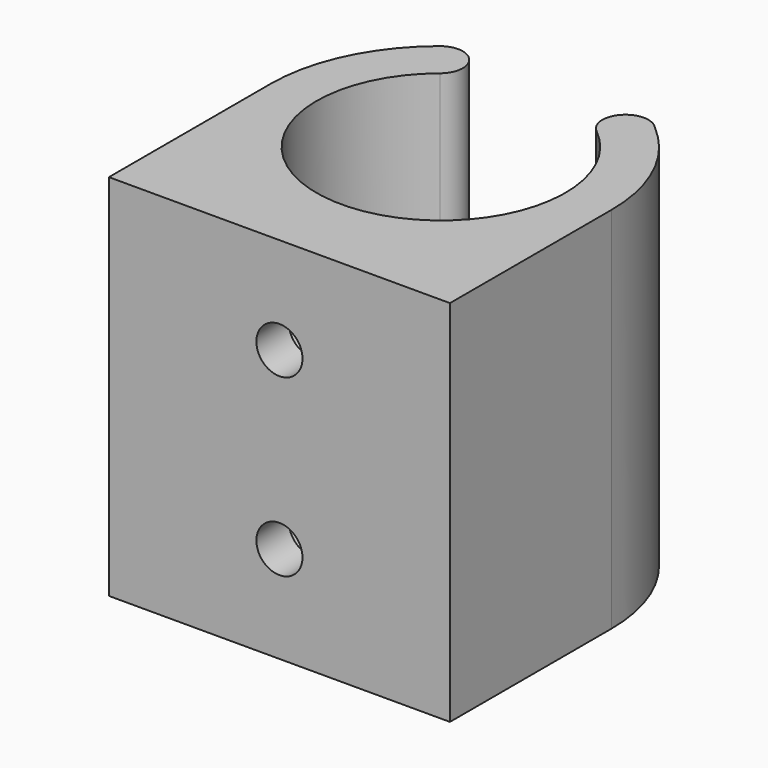
from build123d import *

# Parameters (mm, degrees)
F1_DEPTH = 20
F2_R     = 1.25
F3_DEPTH = 6
F5_R     = 2.75
F6_DEPTH = 5


with BuildPart() as f1:
    # F0 (on Top) → F1 (new body)
    with BuildSketch(Plane.XY):
        with BuildLine():
            Line((-9.25, -9), (9.25, -9))
            Line((9.25, -9), (9.25, 1.95))
            ThreePointArc((9.25, 1.95), (8.3891203434, 5.8383820078), (5.9673854088, 9))
            ThreePointArc((5.9673854088, 9), (4.1312205072, 9.0265556821), (4.25, 7.1940442409))
            ThreePointArc((4.25, 7.1940442409), (0, -4.8), (-4.25, 7.1940442409))
            ThreePointArc((-4.25, 7.1940442409), (-4.0659177332, 8.9522005817), (-5.8240740741, 9.1362828486))
            ThreePointArc((-5.8240740741, 9.1362828486), (-8.3497061381, 5.9305662169), (-9.25, 1.95))
            Line((-9.25, 1.95), (-9.25, -9))
        make_face()
    extrude(amount=F1_DEPTH)

    # F2 (on face) → F3 (cut)
    with BuildSketch(Plane.XZ.offset(9)):
        with Locations((0, 14.75)):
            Circle(F2_R)
        with Locations((0, 5.25)):
            Circle(F2_R)
    extrude(amount=-F3_DEPTH, mode=Mode.SUBTRACT)

    # F5 (on offset) → F6 (cut)
    with BuildSketch(Plane.XZ.offset(6.8)):
        with Locations((0, 14.75)):
            Circle(F5_R)
        with Locations((0, 5.25)):
            Circle(F5_R)
    extrude(amount=-F6_DEPTH, mode=Mode.SUBTRACT)


solid = f1.part
